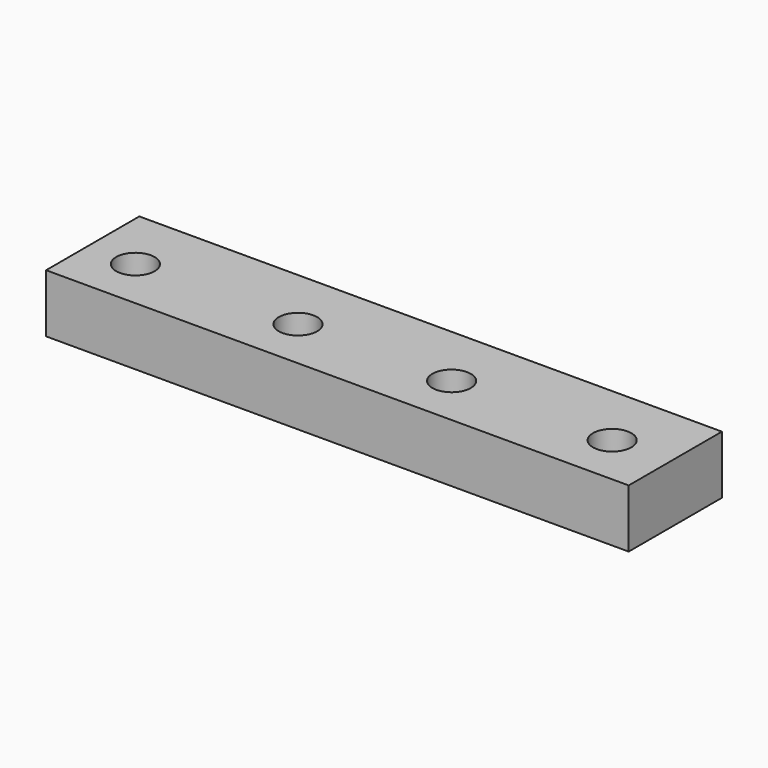
from build123d import *

# Parameters (mm, degrees)
SKETCH_W      = 50
SKETCH_H      = 10
SKETCH_R      = 1.65
EXTRUDE_DEPTH = 5


with BuildPart() as part:
    # Sketch → Extrude (new body)
    with BuildSketch(Plane.XY):
        with Locations((10.879324, 0.570562)):
            Rectangle(SKETCH_W, SKETCH_H)
        with Locations((3.953275, 0)):
            Circle(SKETCH_R, mode=Mode.SUBTRACT)
        with Locations((30.917229, 0)):
            Circle(SKETCH_R, mode=Mode.SUBTRACT)
        with Locations((-10, 0)):
            Circle(SKETCH_R, mode=Mode.SUBTRACT)
        with Locations((17.136692, 0)):
            Circle(SKETCH_R, mode=Mode.SUBTRACT)
    extrude(amount=EXTRUDE_DEPTH)


solid = part.part
